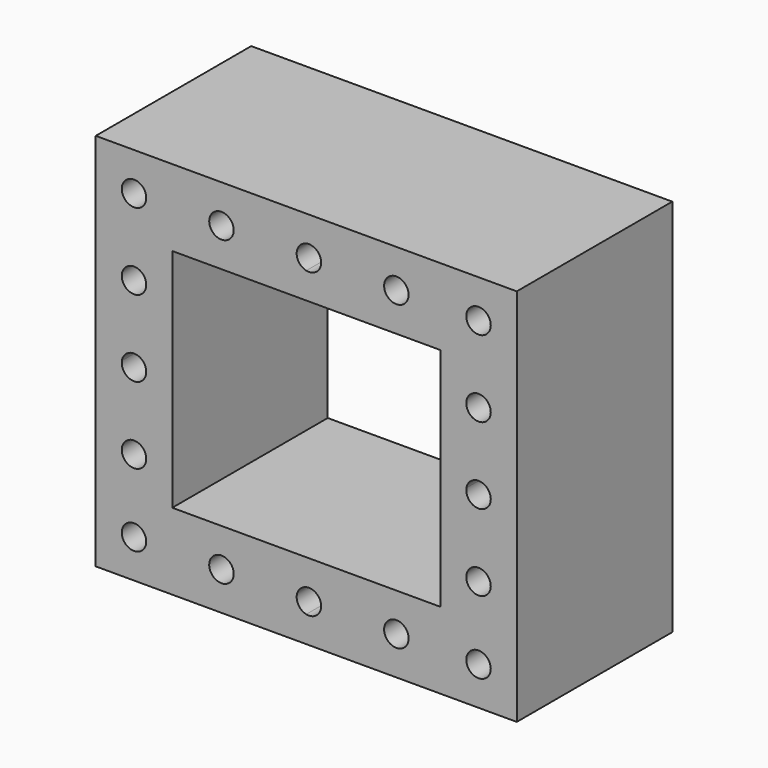
from build123d import *

# Parameters (mm, degrees)
F0_R     = 1.6002
F1_DEPTH = 25.4


with BuildPart() as f1:
    # F0 (on Front) → F1 (new body)
    with BuildSketch(Plane.XZ):
        with BuildLine():
            Line((0, -14.7701), (0, 0))
            Line((0, 0), (17.5133, 0))
            Line((17.5133, 0), (17.5133, 3.43781))
            ThreePointArc((17.5133, 3.43781), (16.2598, 5), (17.5133, 6.56219))
            Line((17.5133, 6.56219), (17.5133, 10))
            Line((17.5133, 10), (-10, 10))
            Line((-10, 10), (-10, -14.7701))
            Line((-10, -14.7701), (-6.581318, -14.7701))
            ThreePointArc((-6.581318, -14.7701), (-5, -13.415), (-3.418682, -14.7701))
            Line((-3.418682, -14.7701), (0, -14.7701))
        make_face()
        with Locations((-5, -5.0076)):
            Circle(F0_R, mode=Mode.SUBTRACT)
        with Locations((-5, 5)):
            Circle(F0_R, mode=Mode.SUBTRACT)
        with Locations((6.43, 5)):
            Circle(F0_R, mode=Mode.SUBTRACT)
        with BuildLine():
            Line((17.5133, 3.43781), (17.5133, 0))
            Line((17.5133, 0), (35.0266, 0))
            Line((35.0266, 0), (35.0266, -14.7701))
            Line((35.0266, -14.7701), (38.445282, -14.7701))
            ThreePointArc((38.445282, -14.7701), (40.0266, -13.415), (41.607918, -14.7701))
            Line((41.607918, -14.7701), (45.0266, -14.7701))
            Line((45.0266, -14.7701), (45.0266, 10))
            Line((45.0266, 10), (17.5133, 10))
            Line((17.5133, 10), (17.5133, 6.56219))
            ThreePointArc((17.5133, 6.56219), (18.861462, 6.248084), (19.4602, 5))
            ThreePointArc((19.4602, 5), (18.861462, 3.751916), (17.5133, 3.43781))
        make_face()
        with Locations((40.0266, -5.0076)):
            Circle(F0_R, mode=Mode.SUBTRACT)
        with Locations((29.29, 5)):
            Circle(F0_R, mode=Mode.SUBTRACT)
        with Locations((40.0266, 5)):
            Circle(F0_R, mode=Mode.SUBTRACT)
        with BuildLine():
            Line((38.445282, -14.7701), (35.0266, -14.7701))
            Line((35.0266, -14.7701), (35.0266, -29.5402))
            Line((35.0266, -29.5402), (17.5133, -29.5402))
            Line((17.5133, -29.5402), (17.5133, -32.97801))
            ThreePointArc((17.5133, -32.97801), (18.861462, -33.292116), (19.4602, -34.5402))
            ThreePointArc((19.4602, -34.5402), (18.861462, -35.788284), (17.5133, -36.10239))
            Line((17.5133, -36.10239), (17.5133, -39.5402))
            Line((17.5133, -39.5402), (45.0266, -39.5402))
            Line((45.0266, -39.5402), (45.0266, -14.7701))
            Line((45.0266, -14.7701), (41.607918, -14.7701))
            ThreePointArc((41.607918, -14.7701), (41.622072, -14.892287), (41.6268, -15.0152))
            ThreePointArc((41.6268, -15.0152), (39.903687, -16.610672), (38.445282, -14.7701))
        make_face()
        with Locations((29.29, -34.5402)):
            Circle(F0_R, mode=Mode.SUBTRACT)
        with Locations((40.0266, -34.5402)):
            Circle(F0_R, mode=Mode.SUBTRACT)
        with Locations((40.0266, -25.0228)):
            Circle(F0_R, mode=Mode.SUBTRACT)
        with BuildLine():
            Line((0, -29.5402), (0, -14.7701))
            Line((0, -14.7701), (-3.418682, -14.7701))
            ThreePointArc((-3.418682, -14.7701), (-3.404528, -14.892287), (-3.3998, -15.0152))
            ThreePointArc((-3.3998, -15.0152), (-5.122913, -16.610672), (-6.581318, -14.7701))
            Line((-6.581318, -14.7701), (-10, -14.7701))
            Line((-10, -14.7701), (-10, -39.5402))
            Line((-10, -39.5402), (17.5133, -39.5402))
            Line((17.5133, -39.5402), (17.5133, -36.10239))
            ThreePointArc((17.5133, -36.10239), (16.2598, -34.5402), (17.5133, -32.97801))
            Line((17.5133, -32.97801), (17.5133, -29.5402))
            Line((17.5133, -29.5402), (0, -29.5402))
        make_face()
        with Locations((-5, -34.5402)):
            Circle(F0_R, mode=Mode.SUBTRACT)
        with Locations((6.43, -34.5402)):
            Circle(F0_R, mode=Mode.SUBTRACT)
        with Locations((-5, -25.0228)):
            Circle(F0_R, mode=Mode.SUBTRACT)
    extrude(amount=F1_DEPTH)


solid = f1.part
